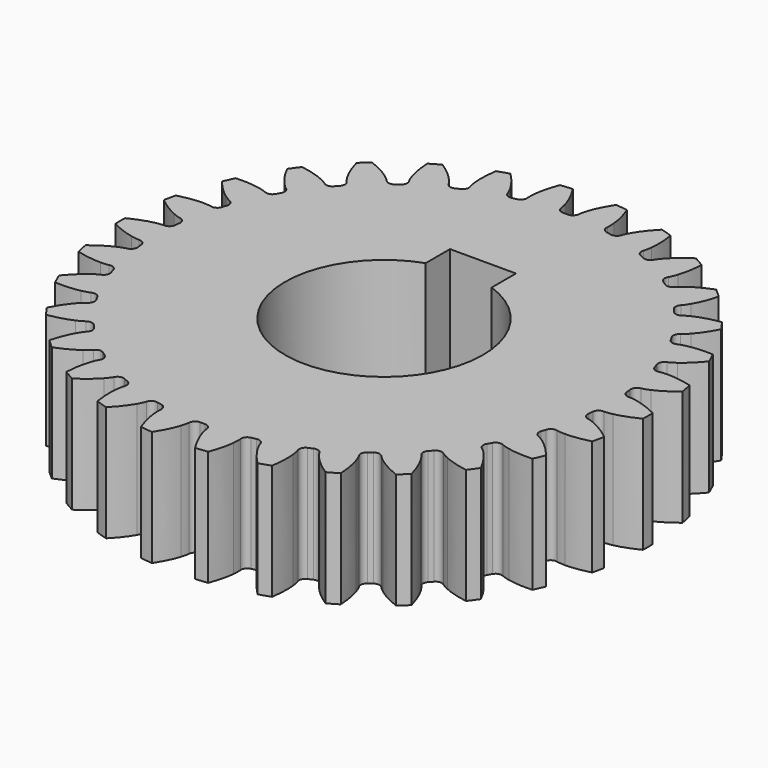
from build123d import *

# Parameters (mm, degrees)
PAD_DEPTH    = 7
POCKET_DEPTH = 7.001


with BuildPart() as part:
    # InvoluteGear → Pad (new body)
    with BuildSketch(Plane.XY):
        with BuildLine():
            add(Edge.make_bspline(
                [(14.083166, -0.948031), (14.138173, -0.948792), (14.304682, -0.945211), (14.582606, -0.887809)],
                knots=[0, 0, 0, 0, 1, 1, 1, 1], degree=3))
            add(Edge.make_bspline(
                [(14.582606, -0.887809), (14.914817, -0.818423), (15.395754, -0.672743), (15.996773, -0.368316)],
                knots=[0, 0, 0, 0, 1, 1, 1, 1], degree=3))
            ThreePointArc((15.996773, -0.368316), (16.000506, 0.000181), (15.995752, 0.368667))
            add(Edge.make_bspline(
                [(15.995752, 0.368667), (15.395754, 0.672743), (14.914817, 0.818423), (14.582606, 0.887809)],
                knots=[0, 0, 0, 0, 1, 1, 1, 1], degree=3))
            add(Edge.make_bspline(
                [(14.582606, 0.887809), (14.304682, 0.945211), (14.138173, 0.948792), (14.083677, 0.94803)],
                knots=[0, 0, 0, 0, 1, 1, 1, 1], degree=3))
            ThreePointArc((14.083677, 0.94803), (13.817723, 1.041296), (13.689156, 1.292096))
            ThreePointArc((13.689156, 1.292096), (13.674676, 1.437266), (13.658657, 1.582275))
            ThreePointArc((13.658657, 1.582275), (13.732127, 1.854108), (13.972522, 2.00074))
            add(Edge.make_bspline(
                [(13.972522, 2.00074), (14.026485, 2.011433), (14.18861, 2.049555), (14.448526, 2.163486)],
                knots=[0, 0, 0, 0, 1, 1, 1, 1], degree=3))
            add(Edge.make_bspline(
                [(14.448526, 2.163486), (14.759052, 2.300427), (15.199191, 2.542915), (15.723783, 2.965649)],
                knots=[0, 0, 0, 0, 1, 1, 1, 1], degree=3))
            ThreePointArc((15.723783, 2.965649), (15.650819, 3.32687), (15.569556, 3.686315))
            add(Edge.make_bspline(
                [(15.569556, 3.686315), (14.919449, 3.858999), (14.418733, 3.901503), (14.079355, 3.900302)],
                knots=[0, 0, 0, 0, 1, 1, 1, 1], degree=3))
            add(Edge.make_bspline(
                [(14.079355, 3.900302), (13.79557, 3.898666), (13.631955, 3.86755), (13.578808, 3.855474)],
                knots=[0, 0, 0, 0, 1, 1, 1, 1], degree=3))
            ThreePointArc((13.578808, 3.855474), (13.299275, 3.891407), (13.121373, 4.109997))
            ThreePointArc((13.121373, 4.109997), (13.077027, 4.248984), (13.031209, 4.387493))
            ThreePointArc((13.031209, 4.387493), (13.046556, 4.668661), (13.251211, 4.86207))
            add(Edge.make_bspline(
                [(13.251211, 4.86207), (13.301772, 4.883749), (13.452429, 4.954745), (13.682977, 5.120227)],
                knots=[0, 0, 0, 0, 1, 1, 1, 1], degree=3))
            add(Edge.make_bspline(
                [(13.682977, 5.120227), (13.958246, 5.318736), (14.33835, 5.647436), (14.763587, 6.17)],
                knots=[0, 0, 0, 0, 1, 1, 1, 1], degree=3))
            ThreePointArc((14.763587, 6.17), (14.617116, 6.508158), (14.462896, 6.842853))
            add(Edge.make_bspline(
                [(14.462896, 6.842853), (13.791092, 6.876599), (13.292481, 6.814069), (12.960769, 6.742333)],
                knots=[0, 0, 0, 0, 1, 1, 1, 1], degree=3))
            add(Edge.make_bspline(
                [(12.960769, 6.742333), (12.683525, 6.681731), (12.529956, 6.617278), (12.48048, 6.594416)],
                knots=[0, 0, 0, 0, 1, 1, 1, 1], degree=3))
            ThreePointArc((12.48048, 6.594416), (12.199584, 6.571445), (11.980123, 6.74827))
            ThreePointArc((11.980123, 6.74827), (11.907849, 6.875), (11.834235, 7.000956))
            ThreePointArc((11.834235, 7.000956), (11.790788, 7.279171), (11.950759, 7.510904))
            add(Edge.make_bspline(
                [(11.950759, 7.510904), (11.995708, 7.542621), (12.128311, 7.643389), (12.319417, 7.853188)],
                knots=[0, 0, 0, 0, 1, 1, 1, 1], degree=3))
            add(Edge.make_bspline(
                [(12.319417, 7.853188), (12.547397, 8.104592), (12.850855, 8.505137), (13.158152, 9.104693)],
                knots=[0, 0, 0, 0, 1, 1, 1, 1], degree=3))
            ThreePointArc((13.158152, 9.104693), (12.944575, 9.405009), (12.724138, 9.700325))
            add(Edge.make_bspline(
                [(12.724138, 9.700325), (12.059998, 9.593658), (11.585284, 9.428828), (11.275735, 9.289693)],
                knots=[0, 0, 0, 0, 1, 1, 1, 1], degree=3))
            add(Edge.make_bspline(
                [(11.275735, 9.289693), (11.01715, 9.172772), (10.880337, 9.077798), (10.836696, 9.04515)],
                knots=[0, 0, 0, 0, 1, 1, 1, 1], degree=3))
            ThreePointArc((10.836696, 9.04515), (10.566714, 8.96428), (10.315284, 9.091612))
            ThreePointArc((10.315284, 9.091612), (10.218241, 9.200546), (10.120048, 9.308444))
            ThreePointArc((10.120048, 9.308444), (10.019707, 9.571546), (10.128002, 9.831475))
            add(Edge.make_bspline(
                [(10.128002, 9.831475), (10.165374, 9.871845), (10.274129, 9.997981), (10.417438, 10.242928)],
                knots=[0, 0, 0, 0, 1, 1, 1, 1], degree=3))
            add(Edge.make_bspline(
                [(10.417438, 10.242928), (10.588167, 10.536237), (10.801716, 10.991122), (10.977643, 11.641468)],
                knots=[0, 0, 0, 0, 1, 1, 1, 1], degree=3))
            ThreePointArc((10.977643, 11.641468), (10.706294, 11.890815), (10.429274, 12.133847))
            add(Edge.make_bspline(
                [(10.429274, 12.133847), (9.801825, 11.891428), (9.371754, 11.631501), (9.097897, 11.431048)],
                knots=[0, 0, 0, 0, 1, 1, 1, 1], degree=3))
            add(Edge.make_bspline(
                [(9.097897, 11.431048), (8.869272, 11.262919), (8.755195, 11.141576), (8.719296, 11.100567)],
                knots=[0, 0, 0, 0, 1, 1, 1, 1], degree=3))
            ThreePointArc((8.719296, 11.100567), (8.472027, 10.965332), (8.199618, 11.037607))
            ThreePointArc((8.199618, 11.037607), (8.082047, 11.123984), (7.963566, 11.209109))
            ThreePointArc((7.963566, 11.209109), (7.810716, 11.445599), (7.862602, 11.722364))
            add(Edge.make_bspline(
                [(7.862602, 11.722364), (7.890764, 11.769621), (7.970917, 11.915612), (8.060168, 12.185003)],
                knots=[0, 0, 0, 0, 1, 1, 1, 1], degree=3))
            add(Edge.make_bspline(
                [(8.060168, 12.185003), (8.166184, 12.507399), (8.28049, 12.996743), (8.317358, 13.669454)],
                knots=[0, 0, 0, 0, 1, 1, 1, 1], degree=3))
            ThreePointArc((8.317358, 13.669454), (8.000096, 13.856936), (7.678601, 14.037061))
            add(Edge.make_bspline(
                [(7.678601, 14.037061), (7.115264, 13.669486), (6.748634, 13.325822), (6.522438, 13.072811)],
                knots=[0, 0, 0, 0, 1, 1, 1, 1], degree=3))
            add(Edge.make_bspline(
                [(6.522438, 13.072811), (6.333764, 12.860823), (6.247409, 12.718413), (6.220821, 12.670837)],
                knots=[0, 0, 0, 0, 1, 1, 1, 1], degree=3))
            ThreePointArc((6.220821, 12.670837), (6.007072, 12.487147), (5.72559, 12.501205))
            ThreePointArc((5.72559, 12.501205), (5.592629, 12.56125), (5.459038, 12.619881))
            ThreePointArc((5.459038, 12.619881), (5.260359, 12.819424), (5.253569, 13.100929))
            add(Edge.make_bspline(
                [(5.253569, 13.100929), (5.27129, 13.153009), (5.319339, 13.312474), (5.350629, 13.594534)],
                knots=[0, 0, 0, 0, 1, 1, 1, 1], degree=3))
            add(Edge.make_bspline(
                [(5.350629, 13.594534), (5.387298, 13.931928), (5.397366, 14.434343), (5.293564, 15.100019)],
                knots=[0, 0, 0, 0, 1, 1, 1, 1], degree=3))
            ThreePointArc((5.293564, 15.100019), (4.944256, 15.217442), (4.592336, 15.326789))
            add(Edge.make_bspline(
                [(4.592336, 15.326789), (4.117733, 14.850121), (3.830566, 14.437741), (3.661917, 14.14323)],
                knots=[0, 0, 0, 0, 1, 1, 1, 1], degree=3))
            add(Edge.make_bspline(
                [(3.661917, 14.14323), (3.521441, 13.896647), (3.466581, 13.739395), (3.450466, 13.68733)],
                knots=[0, 0, 0, 0, 1, 1, 1, 1], degree=3))
            ThreePointArc((3.450466, 13.68733), (3.27958, 13.463213), (3.001325, 13.418441))
            ThreePointArc((3.001325, 13.418441), (2.858786, 13.44953), (2.715925, 13.479104))
            ThreePointArc((2.715925, 13.479104), (2.480099, 13.632979), (2.41493, 13.906921))
            add(Edge.make_bspline(
                [(2.41493, 13.906921), (2.421436, 13.961547), (2.435279, 14.127518), (2.407242, 14.409919)],
                knots=[0, 0, 0, 0, 1, 1, 1, 1], degree=3))
            add(Edge.make_bspline(
                [(2.407242, 14.409919), (2.372962, 14.747564), (2.278352, 15.241094), (2.038417, 15.870642)],
                knots=[0, 0, 0, 0, 1, 1, 1, 1], degree=3))
            ThreePointArc((2.038417, 15.870642), (1.672328, 15.912873), (1.305364, 15.946662))
            add(Edge.make_bspline(
                [(1.305364, 15.946662), (0.940237, 15.381735), (0.745084, 14.918661), (0.641352, 14.595522)],
                knots=[0, 0, 0, 0, 1, 1, 1, 1], degree=3))
            add(Edge.make_bspline(
                [(0.641352, 14.595522), (0.555214, 14.32512), (0.534247, 14.159899), (0.529309, 14.105621)],
                knots=[0, 0, 0, 0, 1, 1, 1, 1], degree=3))
            ThreePointArc((0.529309, 14.105621), (0.408754, 13.850873), (0.145888, 13.749226))
            ThreePointArc((0.145888, 13.749226), (0, 13.75), (-0.145888, 13.749226))
            ThreePointArc((-0.145888, 13.749226), (-0.408553, 13.850708), (-0.529254, 14.105113))
            add(Edge.make_bspline(
                [(-0.529254, 14.105113), (-0.534247, 14.159899), (-0.555214, 14.32512), (-0.641352, 14.595522)],
                knots=[0, 0, 0, 0, 1, 1, 1, 1], degree=3))
            add(Edge.make_bspline(
                [(-0.641352, 14.595522), (-0.745084, 14.918661), (-0.940237, 15.381735), (-1.30582, 15.947641)],
                knots=[0, 0, 0, 0, 1, 1, 1, 1], degree=3))
            ThreePointArc((-1.30582, 15.947641), (-1.672689, 15.912835), (-2.038659, 15.869589))
            add(Edge.make_bspline(
                [(-2.038659, 15.869589), (-2.278352, 15.241094), (-2.372962, 14.747564), (-2.407242, 14.409919)],
                knots=[0, 0, 0, 0, 1, 1, 1, 1], degree=3))
            add(Edge.make_bspline(
                [(-2.407242, 14.409919), (-2.435279, 14.127518), (-2.421436, 13.961547), (-2.414981, 13.907429)],
                knots=[0, 0, 0, 0, 1, 1, 1, 1], degree=3))
            ThreePointArc((-2.414981, 13.907429), (-2.479937, 13.633183), (-2.715925, 13.479104))
            ThreePointArc((-2.715925, 13.479104), (-2.858786, 13.44953), (-3.001325, 13.418441))
            ThreePointArc((-3.001325, 13.418441), (-3.279349, 13.463094), (-3.450306, 13.686845))
            add(Edge.make_bspline(
                [(-3.450306, 13.686845), (-3.466581, 13.739395), (-3.521441, 13.896647), (-3.661917, 14.14323)],
                knots=[0, 0, 0, 0, 1, 1, 1, 1], degree=3))
            add(Edge.make_bspline(
                [(-3.661917, 14.14323), (-3.830566, 14.437741), (-4.117733, 14.850121), (-4.592985, 15.327651)],
                knots=[0, 0, 0, 0, 1, 1, 1, 1], degree=3))
            ThreePointArc((-4.592985, 15.327651), (-4.944601, 15.21733), (-5.293583, 15.09894))
            add(Edge.make_bspline(
                [(-5.293583, 15.09894), (-5.397366, 14.434343), (-5.387298, 13.931928), (-5.350629, 13.594534)],
                knots=[0, 0, 0, 0, 1, 1, 1, 1], degree=3))
            add(Edge.make_bspline(
                [(-5.350629, 13.594534), (-5.319339, 13.312474), (-5.27129, 13.153009), (-5.253725, 13.101415)],
                knots=[0, 0, 0, 0, 1, 1, 1, 1], degree=3))
            ThreePointArc((-5.253725, 13.101415), (-5.260242, 12.819657), (-5.459038, 12.619881))
            ThreePointArc((-5.459038, 12.619881), (-5.592629, 12.56125), (-5.72559, 12.501205))
            ThreePointArc((-5.72559, 12.501205), (-6.006822, 12.487078), (-6.220564, 12.670395))
            add(Edge.make_bspline(
                [(-6.220564, 12.670395), (-6.247409, 12.718413), (-6.333764, 12.860823), (-6.522438, 13.072811)],
                knots=[0, 0, 0, 0, 1, 1, 1, 1], degree=3))
            add(Edge.make_bspline(
                [(-6.522438, 13.072811), (-6.748634, 13.325822), (-7.115264, 13.669486), (-7.679415, 14.03777)],
                knots=[0, 0, 0, 0, 1, 1, 1, 1], degree=3))
            ThreePointArc((-7.679415, 14.03777), (-8.00041, 13.856754), (-8.317151, 13.668394))
            add(Edge.make_bspline(
                [(-8.317151, 13.668394), (-8.28049, 12.996743), (-8.166184, 12.507399), (-8.060168, 12.185003)],
                knots=[0, 0, 0, 0, 1, 1, 1, 1], degree=3))
            add(Edge.make_bspline(
                [(-8.060168, 12.185003), (-7.970917, 11.915612), (-7.890764, 11.769621), (-7.862856, 11.722807)],
                knots=[0, 0, 0, 0, 1, 1, 1, 1], degree=3))
            ThreePointArc((-7.862856, 11.722807), (-7.81065, 11.445851), (-7.963566, 11.209109))
            ThreePointArc((-7.963566, 11.209109), (-8.082047, 11.123984), (-8.199618, 11.037607))
            ThreePointArc((-8.199618, 11.037607), (-8.471768, 10.965317), (-8.718953, 11.100189))
            add(Edge.make_bspline(
                [(-8.718953, 11.100189), (-8.755195, 11.141576), (-8.869272, 11.262919), (-9.097897, 11.431048)],
                knots=[0, 0, 0, 0, 1, 1, 1, 1], degree=3))
            add(Edge.make_bspline(
                [(-9.097897, 11.431048), (-9.371754, 11.631501), (-9.801825, 11.891428), (-10.430218, 12.134371)],
                knots=[0, 0, 0, 0, 1, 1, 1, 1], degree=3))
            ThreePointArc((-10.430218, 12.134371), (-10.706563, 11.890572), (-10.977221, 11.640474))
            add(Edge.make_bspline(
                [(-10.977221, 11.640474), (-10.801716, 10.991122), (-10.588167, 10.536237), (-10.417438, 10.242928)],
                knots=[0, 0, 0, 0, 1, 1, 1, 1], degree=3))
            add(Edge.make_bspline(
                [(-10.417438, 10.242928), (-10.274129, 9.997981), (-10.165374, 9.871845), (-10.128342, 9.831856)],
                knots=[0, 0, 0, 0, 1, 1, 1, 1], degree=3))
            ThreePointArc((-10.128342, 9.831856), (-10.019695, 9.571806), (-10.120048, 9.308444))
            ThreePointArc((-10.120048, 9.308444), (-10.218241, 9.200546), (-10.315284, 9.091612))
            ThreePointArc((-10.315284, 9.091612), (-10.566457, 8.964319), (-10.836282, 9.044851))
            add(Edge.make_bspline(
                [(-10.836282, 9.044851), (-10.880337, 9.077798), (-11.01715, 9.172772), (-11.275735, 9.289693)],
                knots=[0, 0, 0, 0, 1, 1, 1, 1], degree=3))
            add(Edge.make_bspline(
                [(-11.275735, 9.289693), (-11.585284, 9.428828), (-12.059998, 9.593658), (-12.72517, 9.700641)],
                knots=[0, 0, 0, 0, 1, 1, 1, 1], degree=3))
            ThreePointArc((-12.72517, 9.700641), (-12.944788, 9.404715), (-13.157532, 9.103809))
            add(Edge.make_bspline(
                [(-13.157532, 9.103809), (-12.850855, 8.505137), (-12.547397, 8.104592), (-12.319417, 7.853188)],
                knots=[0, 0, 0, 0, 1, 1, 1, 1], degree=3))
            add(Edge.make_bspline(
                [(-12.319417, 7.853188), (-12.128311, 7.643389), (-11.995708, 7.542621), (-11.951172, 7.511205)],
                knots=[0, 0, 0, 0, 1, 1, 1, 1], degree=3))
            ThreePointArc((-11.951172, 7.511205), (-11.790831, 7.279427), (-11.834235, 7.000956))
            ThreePointArc((-11.834235, 7.000956), (-11.907849, 6.875), (-11.980123, 6.74827))
            ThreePointArc((-11.980123, 6.74827), (-12.199341, 6.571537), (-12.480013, 6.594209))
            add(Edge.make_bspline(
                [(-12.480013, 6.594209), (-12.529956, 6.617278), (-12.683525, 6.681731), (-12.960769, 6.742333)],
                knots=[0, 0, 0, 0, 1, 1, 1, 1], degree=3))
            add(Edge.make_bspline(
                [(-12.960769, 6.742333), (-13.292481, 6.814069), (-13.791092, 6.876599), (-14.463972, 6.842947)],
                knots=[0, 0, 0, 0, 1, 1, 1, 1], degree=3))
            ThreePointArc((-14.463972, 6.842947), (-14.617264, 6.507827), (-14.762797, 6.169264))
            add(Edge.make_bspline(
                [(-14.762797, 6.169264), (-14.33835, 5.647436), (-13.958246, 5.318736), (-13.682977, 5.120227)],
                knots=[0, 0, 0, 0, 1, 1, 1, 1], degree=3))
            add(Edge.make_bspline(
                [(-13.682977, 5.120227), (-13.452429, 4.954745), (-13.301772, 4.883749), (-13.251677, 4.862279)],
                knots=[0, 0, 0, 0, 1, 1, 1, 1], degree=3))
            ThreePointArc((-13.251677, 4.862279), (-13.046651, 4.668903), (-13.031209, 4.387493))
            ThreePointArc((-13.031209, 4.387493), (-13.077027, 4.248984), (-13.121373, 4.109997))
            ThreePointArc((-13.121373, 4.109997), (-13.299055, 3.891547), (-13.578308, 3.855369))
            add(Edge.make_bspline(
                [(-13.578308, 3.855369), (-13.631955, 3.86755), (-13.79557, 3.898666), (-14.079355, 3.900302)],
                knots=[0, 0, 0, 0, 1, 1, 1, 1], degree=3))
            add(Edge.make_bspline(
                [(-14.079355, 3.900302), (-14.418733, 3.901503), (-14.919449, 3.858999), (-15.570628, 3.686184)],
                knots=[0, 0, 0, 0, 1, 1, 1, 1], degree=3))
            ThreePointArc((-15.570628, 3.686184), (-15.650895, 3.326515), (-15.722857, 2.965093))
            add(Edge.make_bspline(
                [(-15.722857, 2.965093), (-15.199191, 2.542915), (-14.759052, 2.300427), (-14.448526, 2.163486)],
                knots=[0, 0, 0, 0, 1, 1, 1, 1], degree=3))
            add(Edge.make_bspline(
                [(-14.448526, 2.163486), (-14.18861, 2.049555), (-14.026485, 2.011433), (-13.973021, 2.000848)],
                knots=[0, 0, 0, 0, 1, 1, 1, 1], degree=3))
            ThreePointArc((-13.973021, 2.000848), (-13.73227, 1.854325), (-13.658657, 1.582275))
            ThreePointArc((-13.658657, 1.582275), (-13.674676, 1.437266), (-13.689156, 1.292096))
            ThreePointArc((-13.689156, 1.292096), (-13.817537, 1.041479), (-14.083166, 0.948031))
            add(Edge.make_bspline(
                [(-14.083166, 0.948031), (-14.138173, 0.948792), (-14.304682, 0.945211), (-14.582606, 0.887809)],
                knots=[0, 0, 0, 0, 1, 1, 1, 1], degree=3))
            add(Edge.make_bspline(
                [(-14.582606, 0.887809), (-14.914817, 0.818423), (-15.395754, 0.672743), (-15.996773, 0.368316)],
                knots=[0, 0, 0, 0, 1, 1, 1, 1], degree=3))
            ThreePointArc((-15.996773, 0.368316), (-16.000506, -0.000181), (-15.995752, -0.368667))
            add(Edge.make_bspline(
                [(-15.995752, -0.368667), (-15.395754, -0.672743), (-14.914817, -0.818423), (-14.582606, -0.887809)],
                knots=[0, 0, 0, 0, 1, 1, 1, 1], degree=3))
            add(Edge.make_bspline(
                [(-14.582606, -0.887809), (-14.304682, -0.945211), (-14.138173, -0.948792), (-14.083677, -0.94803)],
                knots=[0, 0, 0, 0, 1, 1, 1, 1], degree=3))
            ThreePointArc((-14.083677, -0.94803), (-13.817723, -1.041296), (-13.689156, -1.292096))
            ThreePointArc((-13.689156, -1.292096), (-13.674676, -1.437266), (-13.658657, -1.582275))
            ThreePointArc((-13.658657, -1.582275), (-13.732127, -1.854108), (-13.972522, -2.00074))
            add(Edge.make_bspline(
                [(-13.972522, -2.00074), (-14.026485, -2.011433), (-14.18861, -2.049555), (-14.448526, -2.163486)],
                knots=[0, 0, 0, 0, 1, 1, 1, 1], degree=3))
            add(Edge.make_bspline(
                [(-14.448526, -2.163486), (-14.759052, -2.300427), (-15.199191, -2.542915), (-15.723783, -2.965649)],
                knots=[0, 0, 0, 0, 1, 1, 1, 1], degree=3))
            ThreePointArc((-15.723783, -2.965649), (-15.650819, -3.32687), (-15.569556, -3.686315))
            add(Edge.make_bspline(
                [(-15.569556, -3.686315), (-14.919449, -3.858999), (-14.418733, -3.901503), (-14.079355, -3.900302)],
                knots=[0, 0, 0, 0, 1, 1, 1, 1], degree=3))
            add(Edge.make_bspline(
                [(-14.079355, -3.900302), (-13.79557, -3.898666), (-13.631955, -3.86755), (-13.578808, -3.855474)],
                knots=[0, 0, 0, 0, 1, 1, 1, 1], degree=3))
            ThreePointArc((-13.578808, -3.855474), (-13.299275, -3.891407), (-13.121373, -4.109997))
            ThreePointArc((-13.121373, -4.109997), (-13.077027, -4.248984), (-13.031209, -4.387493))
            ThreePointArc((-13.031209, -4.387493), (-13.046556, -4.668661), (-13.251211, -4.86207))
            add(Edge.make_bspline(
                [(-13.251211, -4.86207), (-13.301772, -4.883749), (-13.452429, -4.954745), (-13.682977, -5.120227)],
                knots=[0, 0, 0, 0, 1, 1, 1, 1], degree=3))
            add(Edge.make_bspline(
                [(-13.682977, -5.120227), (-13.958246, -5.318736), (-14.33835, -5.647436), (-14.763587, -6.17)],
                knots=[0, 0, 0, 0, 1, 1, 1, 1], degree=3))
            ThreePointArc((-14.763587, -6.17), (-14.617116, -6.508158), (-14.462896, -6.842853))
            add(Edge.make_bspline(
                [(-14.462896, -6.842853), (-13.791092, -6.876599), (-13.292481, -6.814069), (-12.960769, -6.742333)],
                knots=[0, 0, 0, 0, 1, 1, 1, 1], degree=3))
            add(Edge.make_bspline(
                [(-12.960769, -6.742333), (-12.683525, -6.681731), (-12.529956, -6.617278), (-12.48048, -6.594416)],
                knots=[0, 0, 0, 0, 1, 1, 1, 1], degree=3))
            ThreePointArc((-12.48048, -6.594416), (-12.199584, -6.571445), (-11.980123, -6.74827))
            ThreePointArc((-11.980123, -6.74827), (-11.907849, -6.875), (-11.834235, -7.000956))
            ThreePointArc((-11.834235, -7.000956), (-11.790788, -7.279171), (-11.950759, -7.510904))
            add(Edge.make_bspline(
                [(-11.950759, -7.510904), (-11.995708, -7.542621), (-12.128311, -7.643389), (-12.319417, -7.853188)],
                knots=[0, 0, 0, 0, 1, 1, 1, 1], degree=3))
            add(Edge.make_bspline(
                [(-12.319417, -7.853188), (-12.547397, -8.104592), (-12.850855, -8.505137), (-13.158152, -9.104693)],
                knots=[0, 0, 0, 0, 1, 1, 1, 1], degree=3))
            ThreePointArc((-13.158152, -9.104693), (-12.944575, -9.405009), (-12.724138, -9.700325))
            add(Edge.make_bspline(
                [(-12.724138, -9.700325), (-12.059998, -9.593658), (-11.585284, -9.428828), (-11.275735, -9.289693)],
                knots=[0, 0, 0, 0, 1, 1, 1, 1], degree=3))
            add(Edge.make_bspline(
                [(-11.275735, -9.289693), (-11.01715, -9.172772), (-10.880337, -9.077798), (-10.836696, -9.04515)],
                knots=[0, 0, 0, 0, 1, 1, 1, 1], degree=3))
            ThreePointArc((-10.836696, -9.04515), (-10.566714, -8.96428), (-10.315284, -9.091612))
            ThreePointArc((-10.315284, -9.091612), (-10.218241, -9.200546), (-10.120048, -9.308444))
            ThreePointArc((-10.120048, -9.308444), (-10.019707, -9.571546), (-10.128002, -9.831475))
            add(Edge.make_bspline(
                [(-10.128002, -9.831475), (-10.165374, -9.871845), (-10.274129, -9.997981), (-10.417438, -10.242928)],
                knots=[0, 0, 0, 0, 1, 1, 1, 1], degree=3))
            add(Edge.make_bspline(
                [(-10.417438, -10.242928), (-10.588167, -10.536237), (-10.801716, -10.991122), (-10.977643, -11.641468)],
                knots=[0, 0, 0, 0, 1, 1, 1, 1], degree=3))
            ThreePointArc((-10.977643, -11.641468), (-10.706294, -11.890815), (-10.429274, -12.133847))
            add(Edge.make_bspline(
                [(-10.429274, -12.133847), (-9.801825, -11.891428), (-9.371754, -11.631501), (-9.097897, -11.431048)],
                knots=[0, 0, 0, 0, 1, 1, 1, 1], degree=3))
            add(Edge.make_bspline(
                [(-9.097897, -11.431048), (-8.869272, -11.262919), (-8.755195, -11.141576), (-8.719296, -11.100567)],
                knots=[0, 0, 0, 0, 1, 1, 1, 1], degree=3))
            ThreePointArc((-8.719296, -11.100567), (-8.472027, -10.965332), (-8.199618, -11.037607))
            ThreePointArc((-8.199618, -11.037607), (-8.082047, -11.123984), (-7.963566, -11.209109))
            ThreePointArc((-7.963566, -11.209109), (-7.810716, -11.445599), (-7.862602, -11.722364))
            add(Edge.make_bspline(
                [(-7.862602, -11.722364), (-7.890764, -11.769621), (-7.970917, -11.915612), (-8.060168, -12.185003)],
                knots=[0, 0, 0, 0, 1, 1, 1, 1], degree=3))
            add(Edge.make_bspline(
                [(-8.060168, -12.185003), (-8.166184, -12.507399), (-8.28049, -12.996743), (-8.317358, -13.669454)],
                knots=[0, 0, 0, 0, 1, 1, 1, 1], degree=3))
            ThreePointArc((-8.317358, -13.669454), (-8.000096, -13.856936), (-7.678601, -14.037061))
            add(Edge.make_bspline(
                [(-7.678601, -14.037061), (-7.115264, -13.669486), (-6.748634, -13.325822), (-6.522438, -13.072811)],
                knots=[0, 0, 0, 0, 1, 1, 1, 1], degree=3))
            add(Edge.make_bspline(
                [(-6.522438, -13.072811), (-6.333764, -12.860823), (-6.247409, -12.718413), (-6.220821, -12.670837)],
                knots=[0, 0, 0, 0, 1, 1, 1, 1], degree=3))
            ThreePointArc((-6.220821, -12.670837), (-6.007072, -12.487147), (-5.72559, -12.501205))
            ThreePointArc((-5.72559, -12.501205), (-5.592629, -12.56125), (-5.459038, -12.619881))
            ThreePointArc((-5.459038, -12.619881), (-5.260359, -12.819424), (-5.253569, -13.100929))
            add(Edge.make_bspline(
                [(-5.253569, -13.100929), (-5.27129, -13.153009), (-5.319339, -13.312474), (-5.350629, -13.594534)],
                knots=[0, 0, 0, 0, 1, 1, 1, 1], degree=3))
            add(Edge.make_bspline(
                [(-5.350629, -13.594534), (-5.387298, -13.931928), (-5.397366, -14.434343), (-5.293564, -15.100019)],
                knots=[0, 0, 0, 0, 1, 1, 1, 1], degree=3))
            ThreePointArc((-5.293564, -15.100019), (-4.944256, -15.217442), (-4.592336, -15.326789))
            add(Edge.make_bspline(
                [(-4.592336, -15.326789), (-4.117733, -14.850121), (-3.830566, -14.437741), (-3.661917, -14.14323)],
                knots=[0, 0, 0, 0, 1, 1, 1, 1], degree=3))
            add(Edge.make_bspline(
                [(-3.661917, -14.14323), (-3.521441, -13.896647), (-3.466581, -13.739395), (-3.450466, -13.68733)],
                knots=[0, 0, 0, 0, 1, 1, 1, 1], degree=3))
            ThreePointArc((-3.450466, -13.68733), (-3.27958, -13.463213), (-3.001325, -13.418441))
            ThreePointArc((-3.001325, -13.418441), (-2.858786, -13.44953), (-2.715925, -13.479104))
            ThreePointArc((-2.715925, -13.479104), (-2.480099, -13.632979), (-2.41493, -13.906921))
            add(Edge.make_bspline(
                [(-2.41493, -13.906921), (-2.421436, -13.961547), (-2.435279, -14.127518), (-2.407242, -14.409919)],
                knots=[0, 0, 0, 0, 1, 1, 1, 1], degree=3))
            add(Edge.make_bspline(
                [(-2.407242, -14.409919), (-2.372962, -14.747564), (-2.278352, -15.241094), (-2.038417, -15.870642)],
                knots=[0, 0, 0, 0, 1, 1, 1, 1], degree=3))
            ThreePointArc((-2.038417, -15.870642), (-1.672328, -15.912873), (-1.305364, -15.946662))
            add(Edge.make_bspline(
                [(-1.305364, -15.946662), (-0.940237, -15.381735), (-0.745084, -14.918661), (-0.641352, -14.595522)],
                knots=[0, 0, 0, 0, 1, 1, 1, 1], degree=3))
            add(Edge.make_bspline(
                [(-0.641352, -14.595522), (-0.555214, -14.32512), (-0.534247, -14.159899), (-0.529309, -14.105621)],
                knots=[0, 0, 0, 0, 1, 1, 1, 1], degree=3))
            ThreePointArc((-0.529309, -14.105621), (-0.408754, -13.850873), (-0.145888, -13.749226))
            ThreePointArc((-0.145888, -13.749226), (0, -13.75), (0.145888, -13.749226))
            ThreePointArc((0.145888, -13.749226), (0.408553, -13.850708), (0.529254, -14.105113))
            add(Edge.make_bspline(
                [(0.529254, -14.105113), (0.534247, -14.159899), (0.555214, -14.32512), (0.641352, -14.595522)],
                knots=[0, 0, 0, 0, 1, 1, 1, 1], degree=3))
            add(Edge.make_bspline(
                [(0.641352, -14.595522), (0.745084, -14.918661), (0.940237, -15.381735), (1.30582, -15.947641)],
                knots=[0, 0, 0, 0, 1, 1, 1, 1], degree=3))
            ThreePointArc((1.30582, -15.947641), (1.672689, -15.912835), (2.038659, -15.869589))
            add(Edge.make_bspline(
                [(2.038659, -15.869589), (2.278352, -15.241094), (2.372962, -14.747564), (2.407242, -14.409919)],
                knots=[0, 0, 0, 0, 1, 1, 1, 1], degree=3))
            add(Edge.make_bspline(
                [(2.407242, -14.409919), (2.435279, -14.127518), (2.421436, -13.961547), (2.414981, -13.907429)],
                knots=[0, 0, 0, 0, 1, 1, 1, 1], degree=3))
            ThreePointArc((2.414981, -13.907429), (2.479937, -13.633183), (2.715925, -13.479104))
            ThreePointArc((2.715925, -13.479104), (2.858786, -13.44953), (3.001325, -13.418441))
            ThreePointArc((3.001325, -13.418441), (3.279349, -13.463094), (3.450306, -13.686845))
            add(Edge.make_bspline(
                [(3.450306, -13.686845), (3.466581, -13.739395), (3.521441, -13.896647), (3.661917, -14.14323)],
                knots=[0, 0, 0, 0, 1, 1, 1, 1], degree=3))
            add(Edge.make_bspline(
                [(3.661917, -14.14323), (3.830566, -14.437741), (4.117733, -14.850121), (4.592985, -15.327651)],
                knots=[0, 0, 0, 0, 1, 1, 1, 1], degree=3))
            ThreePointArc((4.592985, -15.327651), (4.944601, -15.21733), (5.293583, -15.09894))
            add(Edge.make_bspline(
                [(5.293583, -15.09894), (5.397366, -14.434343), (5.387298, -13.931928), (5.350629, -13.594534)],
                knots=[0, 0, 0, 0, 1, 1, 1, 1], degree=3))
            add(Edge.make_bspline(
                [(5.350629, -13.594534), (5.319339, -13.312474), (5.27129, -13.153009), (5.253725, -13.101415)],
                knots=[0, 0, 0, 0, 1, 1, 1, 1], degree=3))
            ThreePointArc((5.253725, -13.101415), (5.260242, -12.819657), (5.459038, -12.619881))
            ThreePointArc((5.459038, -12.619881), (5.592629, -12.56125), (5.72559, -12.501205))
            ThreePointArc((5.72559, -12.501205), (6.006822, -12.487078), (6.220564, -12.670395))
            add(Edge.make_bspline(
                [(6.220564, -12.670395), (6.247409, -12.718413), (6.333764, -12.860823), (6.522438, -13.072811)],
                knots=[0, 0, 0, 0, 1, 1, 1, 1], degree=3))
            add(Edge.make_bspline(
                [(6.522438, -13.072811), (6.748634, -13.325822), (7.115264, -13.669486), (7.679415, -14.03777)],
                knots=[0, 0, 0, 0, 1, 1, 1, 1], degree=3))
            ThreePointArc((7.679415, -14.03777), (8.00041, -13.856754), (8.317151, -13.668394))
            add(Edge.make_bspline(
                [(8.317151, -13.668394), (8.28049, -12.996743), (8.166184, -12.507399), (8.060168, -12.185003)],
                knots=[0, 0, 0, 0, 1, 1, 1, 1], degree=3))
            add(Edge.make_bspline(
                [(8.060168, -12.185003), (7.970917, -11.915612), (7.890764, -11.769621), (7.862856, -11.722807)],
                knots=[0, 0, 0, 0, 1, 1, 1, 1], degree=3))
            ThreePointArc((7.862856, -11.722807), (7.81065, -11.445851), (7.963566, -11.209109))
            ThreePointArc((7.963566, -11.209109), (8.082047, -11.123984), (8.199618, -11.037607))
            ThreePointArc((8.199618, -11.037607), (8.471768, -10.965317), (8.718953, -11.100189))
            add(Edge.make_bspline(
                [(8.718953, -11.100189), (8.755195, -11.141576), (8.869272, -11.262919), (9.097897, -11.431048)],
                knots=[0, 0, 0, 0, 1, 1, 1, 1], degree=3))
            add(Edge.make_bspline(
                [(9.097897, -11.431048), (9.371754, -11.631501), (9.801825, -11.891428), (10.430218, -12.134371)],
                knots=[0, 0, 0, 0, 1, 1, 1, 1], degree=3))
            ThreePointArc((10.430218, -12.134371), (10.706563, -11.890572), (10.977221, -11.640474))
            add(Edge.make_bspline(
                [(10.977221, -11.640474), (10.801716, -10.991122), (10.588167, -10.536237), (10.417438, -10.242928)],
                knots=[0, 0, 0, 0, 1, 1, 1, 1], degree=3))
            add(Edge.make_bspline(
                [(10.417438, -10.242928), (10.274129, -9.997981), (10.165374, -9.871845), (10.128342, -9.831856)],
                knots=[0, 0, 0, 0, 1, 1, 1, 1], degree=3))
            ThreePointArc((10.128342, -9.831856), (10.019695, -9.571806), (10.120048, -9.308444))
            ThreePointArc((10.120048, -9.308444), (10.218241, -9.200546), (10.315284, -9.091612))
            ThreePointArc((10.315284, -9.091612), (10.566457, -8.964319), (10.836282, -9.044851))
            add(Edge.make_bspline(
                [(10.836282, -9.044851), (10.880337, -9.077798), (11.01715, -9.172772), (11.275735, -9.289693)],
                knots=[0, 0, 0, 0, 1, 1, 1, 1], degree=3))
            add(Edge.make_bspline(
                [(11.275735, -9.289693), (11.585284, -9.428828), (12.059998, -9.593658), (12.72517, -9.700641)],
                knots=[0, 0, 0, 0, 1, 1, 1, 1], degree=3))
            ThreePointArc((12.72517, -9.700641), (12.944788, -9.404715), (13.157532, -9.103809))
            add(Edge.make_bspline(
                [(13.157532, -9.103809), (12.850855, -8.505137), (12.547397, -8.104592), (12.319417, -7.853188)],
                knots=[0, 0, 0, 0, 1, 1, 1, 1], degree=3))
            add(Edge.make_bspline(
                [(12.319417, -7.853188), (12.128311, -7.643389), (11.995708, -7.542621), (11.951172, -7.511205)],
                knots=[0, 0, 0, 0, 1, 1, 1, 1], degree=3))
            ThreePointArc((11.951172, -7.511205), (11.790831, -7.279427), (11.834235, -7.000956))
            ThreePointArc((11.834235, -7.000956), (11.907849, -6.875), (11.980123, -6.74827))
            ThreePointArc((11.980123, -6.74827), (12.199341, -6.571537), (12.480013, -6.594209))
            add(Edge.make_bspline(
                [(12.480013, -6.594209), (12.529956, -6.617278), (12.683525, -6.681731), (12.960769, -6.742333)],
                knots=[0, 0, 0, 0, 1, 1, 1, 1], degree=3))
            add(Edge.make_bspline(
                [(12.960769, -6.742333), (13.292481, -6.814069), (13.791092, -6.876599), (14.463972, -6.842947)],
                knots=[0, 0, 0, 0, 1, 1, 1, 1], degree=3))
            ThreePointArc((14.463972, -6.842947), (14.617264, -6.507827), (14.762797, -6.169264))
            add(Edge.make_bspline(
                [(14.762797, -6.169264), (14.33835, -5.647436), (13.958246, -5.318736), (13.682977, -5.120227)],
                knots=[0, 0, 0, 0, 1, 1, 1, 1], degree=3))
            add(Edge.make_bspline(
                [(13.682977, -5.120227), (13.452429, -4.954745), (13.301772, -4.883749), (13.251677, -4.862279)],
                knots=[0, 0, 0, 0, 1, 1, 1, 1], degree=3))
            ThreePointArc((13.251677, -4.862279), (13.046651, -4.668903), (13.031209, -4.387493))
            ThreePointArc((13.031209, -4.387493), (13.077027, -4.248984), (13.121373, -4.109997))
            ThreePointArc((13.121373, -4.109997), (13.299055, -3.891547), (13.578308, -3.855369))
            add(Edge.make_bspline(
                [(13.578308, -3.855369), (13.631955, -3.86755), (13.79557, -3.898666), (14.079355, -3.900302)],
                knots=[0, 0, 0, 0, 1, 1, 1, 1], degree=3))
            add(Edge.make_bspline(
                [(14.079355, -3.900302), (14.418733, -3.901503), (14.919449, -3.858999), (15.570628, -3.686184)],
                knots=[0, 0, 0, 0, 1, 1, 1, 1], degree=3))
            ThreePointArc((15.570628, -3.686184), (15.650895, -3.326515), (15.722857, -2.965093))
            add(Edge.make_bspline(
                [(15.722857, -2.965093), (15.199191, -2.542915), (14.759052, -2.300427), (14.448526, -2.163486)],
                knots=[0, 0, 0, 0, 1, 1, 1, 1], degree=3))
            add(Edge.make_bspline(
                [(14.448526, -2.163486), (14.18861, -2.049555), (14.026485, -2.011433), (13.973021, -2.000848)],
                knots=[0, 0, 0, 0, 1, 1, 1, 1], degree=3))
            ThreePointArc((13.973021, -2.000848), (13.73227, -1.854325), (13.658657, -1.582275))
            ThreePointArc((13.658657, -1.582275), (13.674676, -1.437266), (13.689156, -1.292096))
            ThreePointArc((13.689156, -1.292096), (13.817537, -1.041479), (14.083166, -0.948031))
        make_face()
    extrude(amount=PAD_DEPTH)

    # Sketch001 → Pocket (cut, through all)
    with BuildSketch(Plane.XY.offset(7)):
        with BuildLine():
            ThreePointArc((-2, 5.656854), (0, -6), (2, 5.656854))
            Line((2, 7.5), (2, 5.656854))
            Line((-2, 7.5), (2, 7.5))
            Line((-2, 7.5), (-2, 5.656854))
        make_face()
    extrude(amount=-POCKET_DEPTH, mode=Mode.SUBTRACT)


solid = part.part
